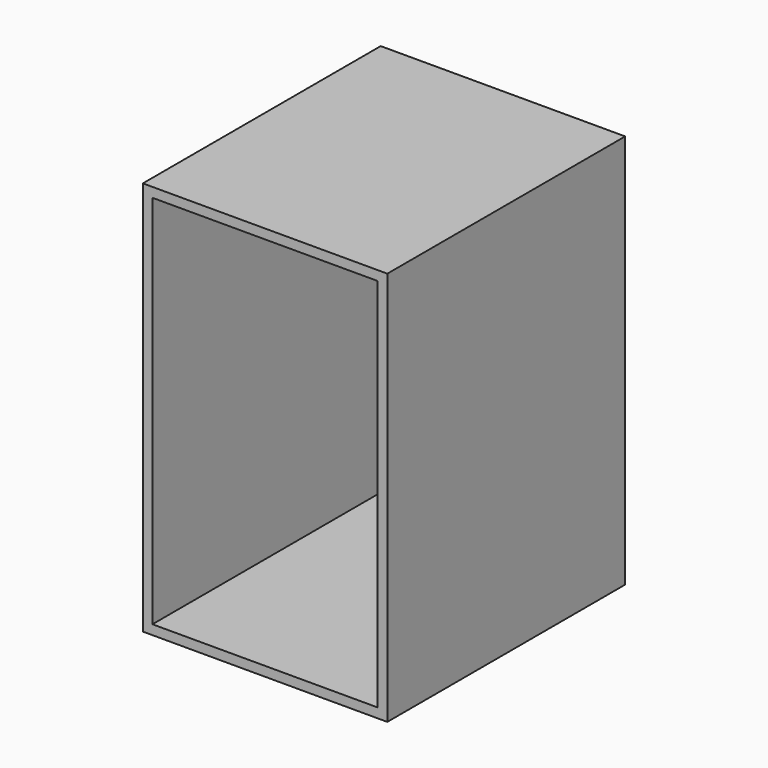
from build123d import *

# Parameters (mm, degrees)
F0_W     = 298.3636856079
F0_H     = 497.2105026245
F1_DEPTH = 381
F2_T     = 12.7


with BuildPart() as f1:
    # F0 (on Front) → F1 (new body)
    with BuildSketch(Plane.XZ):
        Rectangle(F0_W, F0_H)
    extrude(amount=F1_DEPTH)

    # F2
    f2_openings = [f1.faces().sort_by_distance(p)[0] for p in [
        (0, -381, 0),
    ]]
    offset(amount=F2_T, openings=f2_openings, kind=Kind.INTERSECTION)


solid = f1.part
